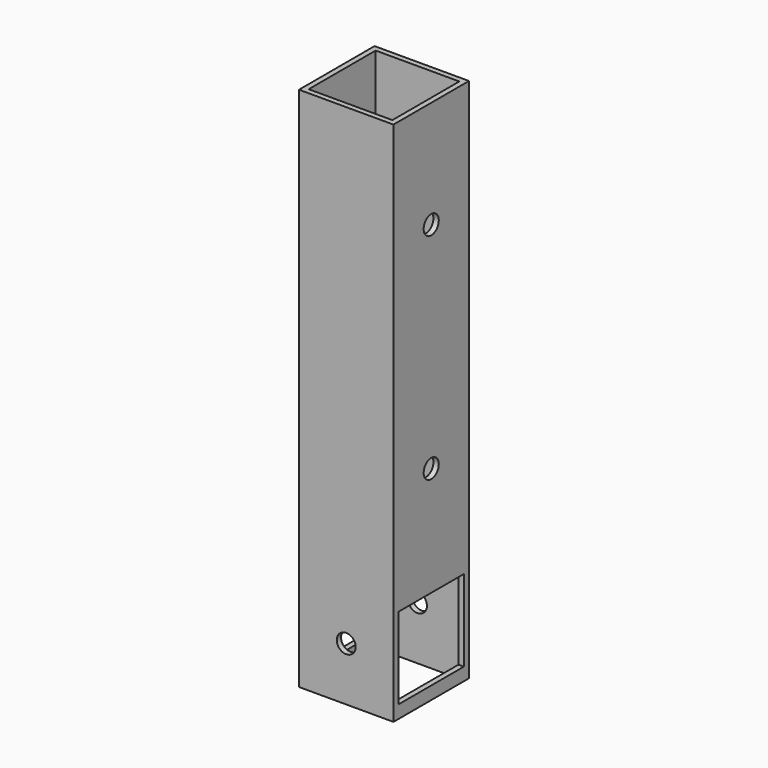
from build123d import *

# Parameters (mm, degrees)
F0_W     = 44
F0_H     = 44
F0_W_2   = 39
F0_H_2   = 39
F1_DEPTH = 245
F3_D     = 8.8
F4_W     = 38
F4_H     = 38
F5_DEPTH = 44.001
F7_D     = 8.8


with BuildPart() as f1:
    # F0 (on Top) → F1 (new body)
    with BuildSketch(Plane.XY):
        Rectangle(F0_W, F0_H)
        Rectangle(F0_W_2, F0_H_2, mode=Mode.SUBTRACT)
    extrude(amount=F1_DEPTH)

    # F3 (through all)
    with Locations(Plane(origin=(-22, 0, 0), x_dir=(0, -1, 0), z_dir=(-1, 0, 0))):
        with Locations((0, 195), (-1.2203e-06, 95)):
            Hole(F3_D / 2)

    # F4 (on face) → F5 (cut, through all)
    with BuildSketch(Plane.YZ.offset(22)):
        with Locations((0, 25)):
            Rectangle(F4_W, F4_H)
    extrude(amount=-F5_DEPTH, mode=Mode.SUBTRACT)

    # F7 (through all)
    with Locations(Plane.XZ.offset(22)):
        with Locations((0, 25)):
            Hole(F7_D / 2)


solid = f1.part
